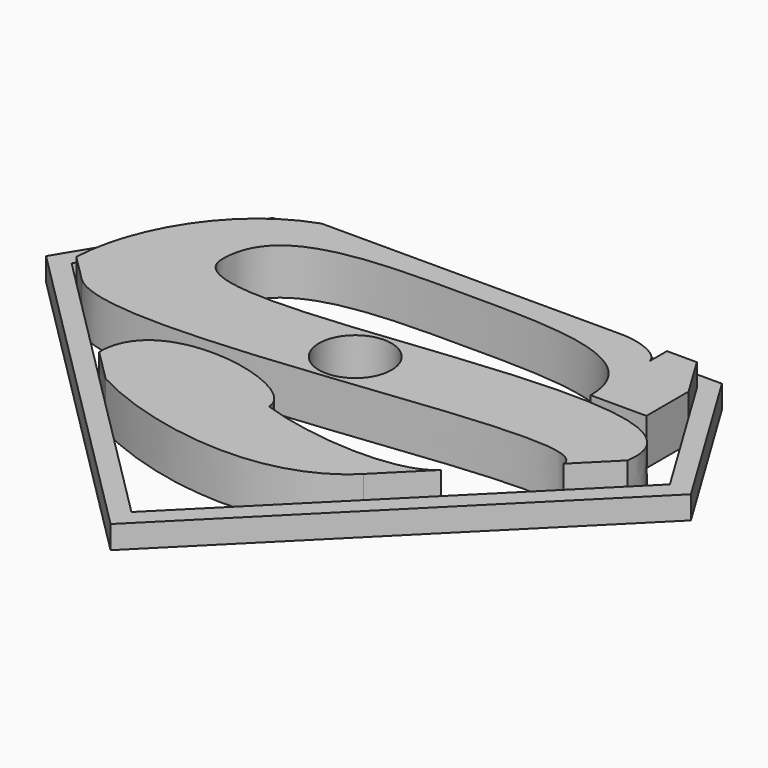
from build123d import *

# Parameters (mm, degrees)
F1_DEPTH = 3.175
F0_R     = 5.0038
F2_DEPTH = 6.35


with BuildPart() as f1:
    # F0 (on Top) → F1 (new body)
    with BuildSketch(Plane.XY):
        Polygon((30.946072, 22.225), (-30.946072, 22.225), (-44.45, 0), (0, -44.45), (44.45, 0), align=None)
        Polygon((25.4, 19.685), (29.517276, 19.685), (33.1, 13.78849), (41.243565, 0.385668), (37.992065, -2.865833), (33.1, -7.757898), (23.712898, -17.145), (17.78, -23.077898), (0, -40.857898), (-17.78, -23.077898), (-22.225, -18.632898), (-34.333898, -6.524), (-37.992065, -2.865833), (-41.243565, 0.385668), (-29.517276, 19.685), (-22.225, 19.685), (19.05, 19.685), align=None, mode=Mode.SUBTRACT)
    extrude(amount=F1_DEPTH)

    # F0 (on Top) → F2 (join)
    with BuildSketch(Plane.XY):
        with BuildLine():
            Line((33.1, 13.78849), (29.517276, 19.685))
            Line((29.517276, 19.685), (25.4, 19.685))
            Line((25.4, 19.685), (25.4, 16.51))
            add(Edge.make_bspline(
                [(25.4, 16.51), (25.4, 18.0975), (22.225, 19.685), (19.05, 19.685)],
                knots=[0, 0, 0, 0, 7.099516, 7.099516, 7.099516, 7.099516], degree=3))
            Line((19.05, 19.685), (-22.225, 19.685))
            add(Edge.make_bspline(
                [(-22.225, 19.685), (-31.446408, 16.51), (-37.53728, 6.524), (-37.992065, -2.865833)],
                knots=[0, 0, 0, 0, 27.516184, 27.516184, 27.516184, 27.516184], degree=3))
            Line((-37.992065, -2.865833), (-34.333898, -6.524))
            add(Edge.make_bspline(
                [(-34.333898, -6.524), (-25.4, -15.457898), (33.1, 0), (33.1, -7.757898)],
                knots=[0, 0, 0, 0, 67.445185, 67.445185, 67.445185, 67.445185], degree=3))
            Line((33.1, -7.757898), (37.992065, -2.865833))
            add(Edge.make_bspline(
                [(-25.4, 6.524), (-25.4, -6.524), (41.270115, 16.51), (37.992065, -2.865833)],
                knots=[0, 0, 0, 0, 64.083718, 64.083718, 64.083718, 64.083718], degree=3))
            add(Edge.make_bspline(
                [(25.4, 6.524), (25.4, 16.51), (0, 16.51), (-25.4, 16.51), (-25.4, 6.524)],
                knots=[0, 0, 0, 0, 27.292493, 54.584987, 54.584987, 54.584987, 54.584987], degree=3))
            Line((25.4, 6.524), (33.1, 6.524))
            Line((33.1, 6.524), (33.1, 13.78849))
        make_face()
        with Locations((0, -2.286)):
            Circle(F0_R, mode=Mode.SUBTRACT)
        with BuildLine():
            Line((17.78, -23.077898), (23.712898, -17.145))
            add(Edge.make_bspline(
                [(0, -17.145), (7.202898, -19.685), (19.902898, -20.955), (23.712898, -17.145)],
                knots=[0, 0, 0, 0, 23.712898, 23.712898, 23.712898, 23.712898], degree=3))
            add(Edge.make_bspline(
                [(-22.225, -18.632898), (-22.225, -6.524), (0, -11.43), (0, -17.145)],
                knots=[0, 0, 0, 0, 22.274749, 22.274749, 22.274749, 22.274749], degree=3))
            Line((-22.225, -18.632898), (-17.78, -23.077898))
            add(Edge.make_bspline(
                [(-17.78, -23.077898), (-8.91666, -27.948352), (8.86934, -31.988558), (17.78, -23.077898)],
                knots=[0, 0, 0, 0, 35.56, 35.56, 35.56, 35.56], degree=3))
        make_face()
    extrude(amount=F2_DEPTH)


solid = f1.part
